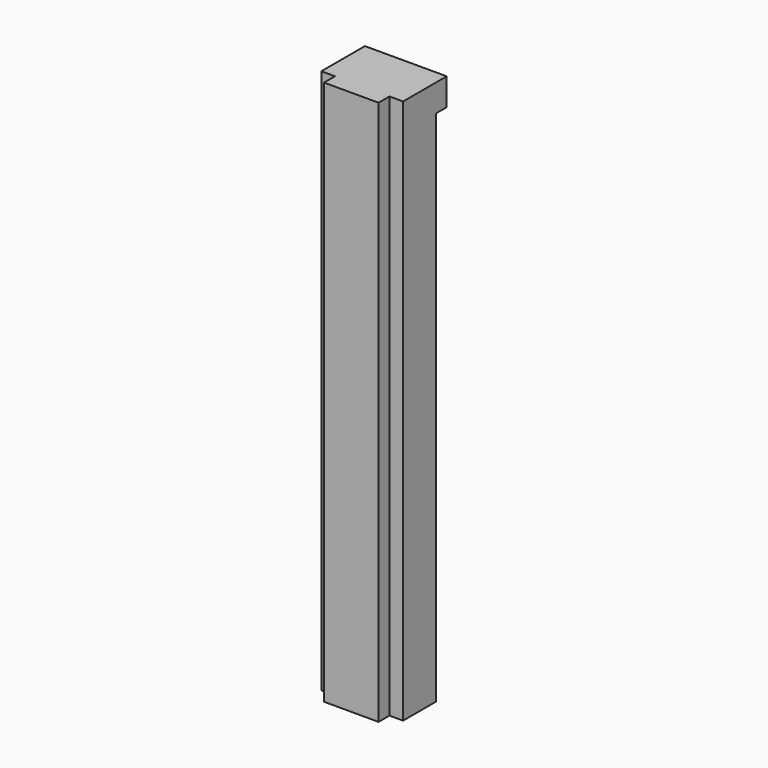
from build123d import *

# Parameters (mm, degrees)
F0_W     = 20
F0_H     = 5
F1_DEPTH = 200
F2_W     = 30
F2_H     = 10
F3_DEPTH = 5


with BuildPart() as f1:
    # F0 (on Top) → F1 (new body)
    with BuildSketch(Plane.XY):
        Polygon((15, -7.5), (15, 7.5), (-15, 7.5), (-15, -7.5), (-10, -7.5), (-10, -2.5), (10, -2.5), (10, -7.5), align=None)
        with Locations((0, -5)):
            Rectangle(F0_W, F0_H)
        with Locations((0, -10)):
            Rectangle(F0_W, F0_H)
    extrude(amount=F1_DEPTH)

    # F2 (on face) → F3 (join)
    with BuildSketch(Plane(origin=(0, 7.5, 0), x_dir=(-1, 0, 0), z_dir=(0, 1, 0))):
        with Locations((0, 195)):
            Rectangle(F2_W, F2_H)
    extrude(amount=F3_DEPTH)


solid = f1.part
